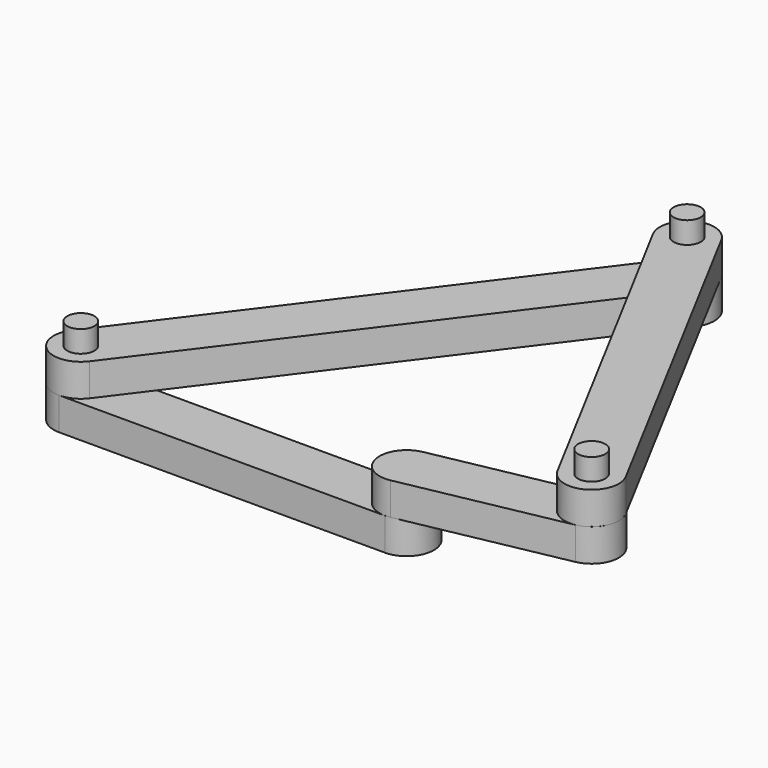
from build123d import *

# Parameters (mm, degrees)
F6_DEPTH  = 6
F7_R      = 2.5
F8_DEPTH  = 10
F9_R      = 3
F10_DEPTH = 5
F12_DEPTH = 6
F13_R     = 2.5
F14_DEPTH = 4
F15_R     = 3
F16_DEPTH = 5
F18_DEPTH = 6
F19_R     = 2.5
F20_DEPTH = 4
F21_R     = 3
F22_DEPTH = 4
F24_DEPTH = 6
F25_R     = 2.5
F26_DEPTH = 4


with BuildPart() as f6:
    # F5 (on Top) → F6 (new body)
    with BuildSketch(Plane.XY):
        with BuildLine():
            ThreePointArc((0, -5), (5, 0), (0, 5))
            Line((0, 5), (-60, 5))
            ThreePointArc((-60, 5), (-65, 0), (-60, -5))
            Line((-60, -5), (0, -5))
        make_face()
    extrude(amount=F6_DEPTH)

    # F7 (on Top) → F8 (join)
    with BuildSketch(Plane.XY):
        with Locations((-60, 0)):
            Circle(F7_R)
        Circle(F7_R)
    extrude(amount=F8_DEPTH)

    # F9 (on Top) → F10 (join)
    with BuildSketch(Plane.XY):
        with Locations((-60, 0)):
            Circle(F9_R)
        Circle(F9_R)
    extrude(amount=F10_DEPTH)


with BuildPart() as f12:
    # F11 (on offset) → F12 (new body)
    with BuildSketch(Plane.XY.offset(6)):
        with BuildLine():
            ThreePointArc((-0.9620224756, 4.9065785183), (-4.9065785183, -0.9620224756), (0.9620224756, -4.9065785183))
            Line((0.9620224756, -4.9065785183), (30.4014935855, 0.8655563354))
            ThreePointArc((30.4014935855, 0.8655563354), (34.3460496282, 6.7341573293), (28.4774486343, 10.678713372))
            Line((28.4774486343, 10.678713372), (-0.9620224756, 4.9065785183))
        make_face()
    extrude(amount=F12_DEPTH)

    # F13 (on offset) → F14 (join)
    with BuildSketch(Plane.XY.offset(12)):
        with Locations((29.4394711099, 5.7721348537)):
            Circle(F13_R)
    extrude(amount=F14_DEPTH)

    # F15 (on offset) → F16 (cut)
    with BuildSketch(Plane.XY.offset(6)):
        Circle(F15_R)
        with Locations((29.4394711099, 5.7721348537)):
            Circle(F15_R)
    extrude(amount=F16_DEPTH, mode=Mode.SUBTRACT)


with BuildPart() as f18:
    # F17 (on offset) → F18 (new body)
    with BuildSketch(Plane.XY.offset(6)):
        with BuildLine():
            ThreePointArc((-63.9958112379, 3.0055769082), (-63.0055769082, -3.9958112379), (-56.0041887621, -3.0055769082))
            Line((-56.0041887621, -3.0055769082), (-1.9038044142, 68.9190253736))
            ThreePointArc((-1.9038044142, 68.9190253736), (-2.8940387438, 75.9204135197), (-9.8954268899, 74.9301791901))
            Line((-9.8954268899, 74.9301791901), (-63.9958112379, 3.0055769082))
        make_face()
    extrude(amount=F18_DEPTH)

    # F19 (on offset) → F20 (join)
    with BuildSketch(Plane.XY.offset(12)):
        with Locations((-5.899615652, 71.9246022818)):
            Circle(F19_R)
        with Locations((-60, 0)):
            Circle(F19_R)
    extrude(amount=F20_DEPTH)

    # F21 (on offset) → F22 (cut)
    with BuildSketch(Plane.XY.offset(6)):
        with Locations((-60, 0)):
            Circle(F21_R)
        with Locations((-5.899615652, 71.9246022818)):
            Circle(F21_R)
    extrude(amount=F22_DEPTH, mode=Mode.SUBTRACT)


with BuildPart() as f24:
    # F23 (on offset) → F24 (new body)
    with BuildSketch(Plane.XY.offset(12)):
        with BuildLine():
            ThreePointArc((-1.4894511568, 74.2805413993), (-8.2555547695, 76.3347667771), (-10.3097801472, 69.5686631644))
            Line((-10.3097801472, 69.5686631644), (25.0293066147, 3.4161957362))
            ThreePointArc((25.0293066147, 3.4161957362), (31.7954102274, 1.3619703585), (33.8496356051, 8.1280739712))
            Line((33.8496356051, 8.1280739712), (-1.4894511568, 74.2805413993))
        make_face()
    extrude(amount=F24_DEPTH)

    # F25 (on offset) → F26 (join)
    with BuildSketch(Plane.XY.offset(18)):
        with Locations((29.4394711099, 5.7721348537)):
            Circle(F25_R)
        with Locations((-5.899615652, 71.9246022818)):
            Circle(F25_R)
    extrude(amount=F26_DEPTH)


solid = Compound([f6.part, f12.part, f18.part, f24.part])
